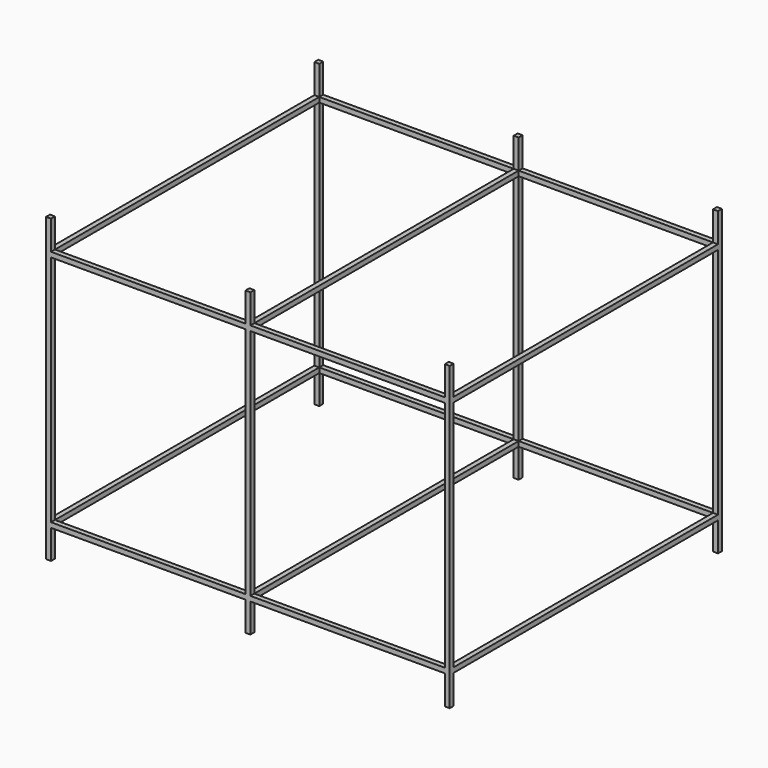
from build123d import *

# Parameters (mm, degrees)
F0_W      = 3500
F0_H      = 2500
F0_W_2    = 3398.4
F0_H_2    = 2398.4
F1_DEPTH  = 50.8
F2_W      = 50.8
F2_H      = 50.8
F3_DEPTH  = 300
F4_W      = 50.8
F4_H      = 50.8
F5_DEPTH  = 300
F6_W      = 50.8
F6_H      = 50.8
F7_DEPTH  = 1000
F9_W      = 50.8
F9_H      = 50.8
F10_DEPTH = 2000
F11_W     = 3500
F11_H     = 2500
F11_W_2   = 3398.4
F11_H_2   = 2398.4
F12_DEPTH = 50.8
F13_W     = 50.8
F13_H     = 50.8
F14_DEPTH = 300
F15_W     = 50.8
F15_H     = 50.8
F16_DEPTH = 300


with BuildPart() as f1:
    # F0 (on Right) → F1 (new body)
    with BuildSketch(Plane.YZ):
        with Locations((450.493536, -22.512738)):
            Rectangle(F0_W, F0_H)
        with Locations((450.493536, -22.512738)):
            Rectangle(F0_W_2, F0_H_2, mode=Mode.SUBTRACT)
    extrude(amount=F1_DEPTH)

    # F2 (on face) → F3 (join)
    with BuildSketch(Plane.XY.offset(1227.487262)):
        with Locations((25.4, -1274.106464)):
            Rectangle(F2_W, F2_H)
        with Locations((25.4, 2175.093536)):
            Rectangle(F2_W, F2_H)
    extrude(amount=F3_DEPTH)

    # F4 (on face) → F5 (join)
    with BuildSketch(Plane(origin=(0, 0, -1272.512738), x_dir=(1, 0, 0), z_dir=(0, 0, -1))):
        with Locations((25.4, 1274.106464)):
            Rectangle(F4_W, F4_H)
        with Locations((25.4, -2175.093536)):
            Rectangle(F4_W, F4_H)
    extrude(amount=F5_DEPTH)

    # F6 (on face) → F7 (join)
    with BuildSketch(Plane(origin=(0, 0, 0), x_dir=(0, -1, 0), z_dir=(-1, 0, 0))):
        with Locations((-2175.093536, 1202.087262)):
            Rectangle(F6_W, F6_H)
        with Locations((1274.106464, 1202.087262)):
            Rectangle(F6_W, F6_H)
        with Locations((-2175.093536, -1247.112738)):
            Rectangle(F6_W, F6_H)
        with Locations((1274.106464, -1247.112738)):
            Rectangle(F6_W, F6_H)
    extrude(amount=F7_DEPTH)

    # F8: F1 across face


with BuildPart() as f1_1:
    add(f1.part)
    add(f1.part.mirror(Plane(origin=(-1000, 2175.093536, 1202.087262), x_dir=(0, -1, 0), z_dir=(-1, 0, 0))))

    # F9 (on face) → F10 (join)
    with BuildSketch(Plane(origin=(-2050.8, 0, 0), x_dir=(0, -1, 0), z_dir=(-1, 0, 0))):
        with Locations((-2175.093536, 1202.087262)):
            Rectangle(F9_W, F9_H)
        with Locations((1274.106464, 1202.087262)):
            Rectangle(F9_W, F9_H)
        with Locations((-2175.093536, -1247.112738)):
            Rectangle(F9_W, F9_H)
        with Locations((1274.106464, -1247.112738)):
            Rectangle(F9_W, F9_H)
    extrude(amount=F10_DEPTH)

    # F11 (on face) → F12 (join)
    with BuildSketch(Plane(origin=(-4050.8, 0, 0), x_dir=(0, -1, 0), z_dir=(-1, 0, 0))):
        with Locations((-450.493536, -22.512738)):
            Rectangle(F11_W, F11_H)
        with Locations((-450.493536, -22.512738)):
            Rectangle(F11_W_2, F11_H_2, mode=Mode.SUBTRACT)
    extrude(amount=F12_DEPTH)

    # F13 (on face) → F14 (join)
    with BuildSketch(Plane.XY.offset(1227.487262)):
        with Locations((-4076.2, 2175.093536)):
            Rectangle(F13_W, F13_H)
        with Locations((-4076.2, -1274.106464)):
            Rectangle(F13_W, F13_H)
    extrude(amount=F14_DEPTH)

    # F15 (on face) → F16 (join)
    with BuildSketch(Plane(origin=(0, 0, -1272.512738), x_dir=(1, 0, 0), z_dir=(0, 0, -1))):
        with Locations((-4076.2, -2175.093536)):
            Rectangle(F15_W, F15_H)
        with Locations((-4076.2, 1274.106464)):
            Rectangle(F15_W, F15_H)
    extrude(amount=F16_DEPTH)


solid = f1_1.part
